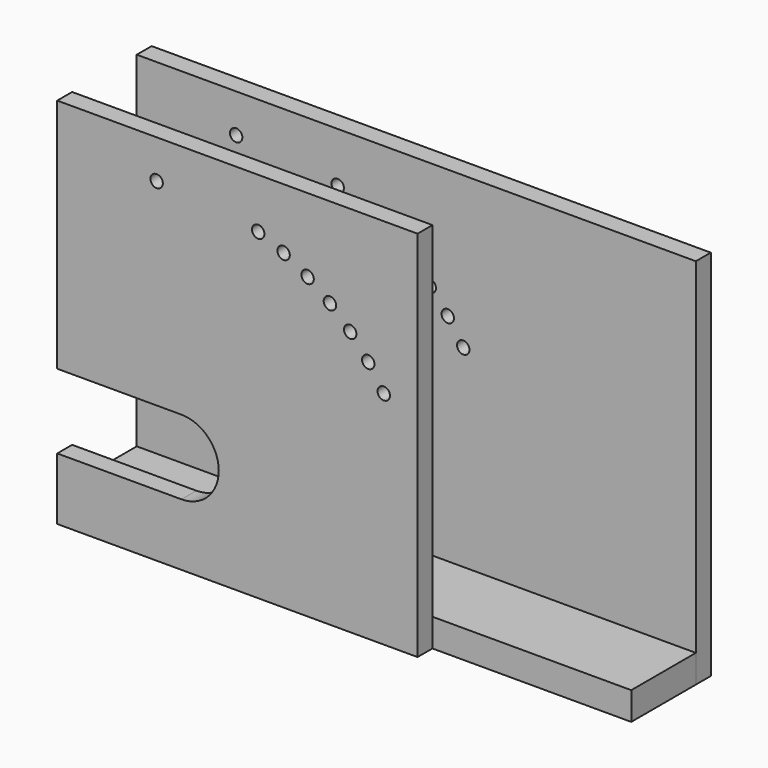
from build123d import *

# Parameters (mm, degrees)
F0_W      = 571.5
F0_H      = 82.55
F1_DEPTH  = 28.575
F3_DEPTH  = 19.05
F4_W      = 571.5
F4_H      = 381
F5_DEPTH  = 19.05
F6_R      = 3.2639
F7_DEPTH  = 25.4
F8_W      = 28.575
F8_H      = 101.6
F9_DEPTH  = 82.55
F11_R     = 6.35
F12_DEPTH = 25.4
F13_R     = 6.35
F14_DEPTH = 25.4


with BuildPart() as f1:
    # F0 (on Top) → F1 (new body)
    with BuildSketch(Plane.XY):
        with Locations((158.75, 0)):
            Rectangle(F0_W, F0_H)
    extrude(amount=F1_DEPTH)


with BuildPart() as f3:
    # F2 (on face) → F3 (new body)
    with BuildSketch(Plane.XZ.offset(41.275)):
        with BuildLine():
            Line((-127, 63.5), (-127, 0))
            Line((-127, 0), (241.3, 0))
            Line((241.3, 0), (241.3, 381))
            Line((241.3, 381), (-127, 381))
            Line((-127, 381), (-127, 139.7))
            Line((-127, 139.7), (0, 139.7))
            ThreePointArc((0, 139.7), (38.1, 101.6), (0, 63.5))
            Line((0, 63.5), (-127, 63.5))
        make_face()
    extrude(amount=F3_DEPTH)

    # F11 (on face) → F12 (cut)
    with BuildSketch(Plane.XZ.offset(60.325)):
        with Locations((151.716432, 289.237457)):
            Circle(F11_R)
        with Locations((128.907201, 305.581922)):
            Circle(F11_R)
        with Locations((104.354721, 319.167882)):
            Circle(F11_R)
        with Locations((78.391022, 329.811609)):
            Circle(F11_R)
        with Locations((172.473959, 270.355516)):
            Circle(F11_R)
        with Locations((190.899071, 249.191448)):
            Circle(F11_R)
        with Locations((206.742601, 226.031457)):
            Circle(F11_R)
        with Locations((-25.4, 341.559434)):
            Circle(F11_R)
    extrude(amount=-F12_DEPTH, mode=Mode.SUBTRACT)


with BuildPart() as f5:
    # F4 (on face) → F5 (new body)
    with BuildSketch(Plane(origin=(0, 41.275, 0), x_dir=(-1, 0, 0), z_dir=(0, 1, 0))):
        with Locations((-158.75, 190.5)):
            Rectangle(F4_W, F4_H)
    extrude(amount=F5_DEPTH)

    # F6 (on face) → F7 (cut)
    with BuildSketch(Plane.XZ.offset(-41.275)):
        with Locations((-25.4, 127)):
            Circle(F6_R)
        with Locations((25.4, 127)):
            Circle(F6_R)
        with Locations((-25.4, 76.2)):
            Circle(F6_R)
        with Locations((25.4, 76.2)):
            Circle(F6_R)
    extrude(amount=-F7_DEPTH, mode=Mode.SUBTRACT)

    # F13 (on face) → F14 (cut)
    with BuildSketch(Plane.XZ.offset(-41.275)):
        with Locations((-25.4, 341.559434)):
            Circle(F13_R)
        with Locations((78.391022, 329.811609)):
            Circle(F13_R)
        with Locations((104.354721, 319.167882)):
            Circle(F13_R)
        with Locations((128.907201, 305.581922)):
            Circle(F13_R)
        with Locations((151.716432, 289.237457)):
            Circle(F13_R)
        with Locations((172.473959, 270.355516)):
            Circle(F13_R)
        with Locations((190.899071, 249.191448)):
            Circle(F13_R)
        with Locations((206.742601, 226.031457)):
            Circle(F13_R)
    extrude(amount=-F14_DEPTH, mode=Mode.SUBTRACT)


with BuildPart() as f9:
    # F8 (on face) → F9 (new body, through all)
    with BuildSketch(Plane.XZ.offset(-41.275)):
        with Locations((-112.7125, 190.5)):
            Rectangle(F8_W, F8_H)
    extrude(amount=F9_DEPTH)


solid = Compound([f1.part, f3.part, f5.part, f9.part])
